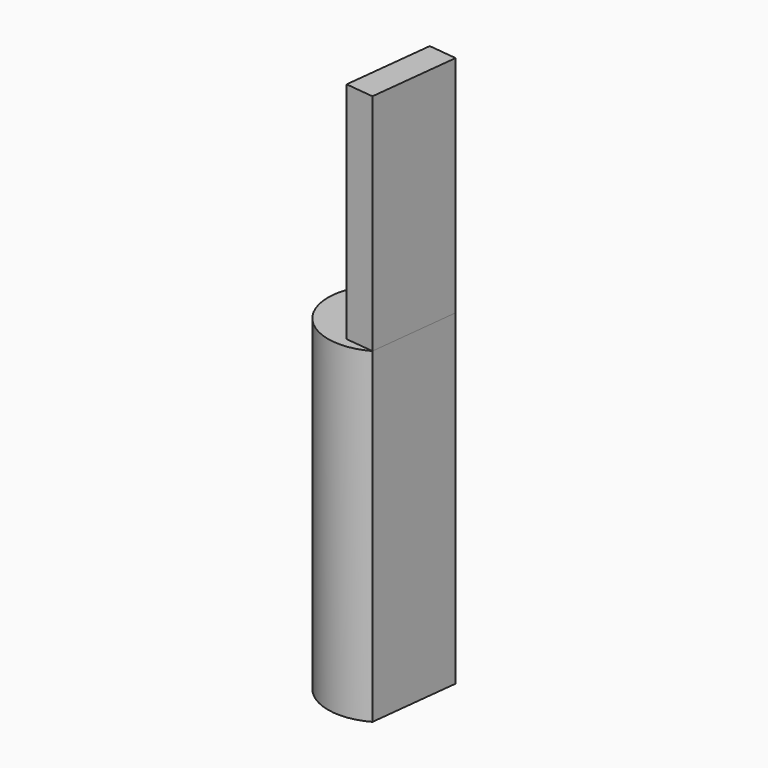
from build123d import *

# Parameters (mm, degrees)
F0_R     = 6.9
F1_DEPTH = 40
F3_DEPTH = 40
F4_W     = 11.228349
F4_H     = 10.522324
F5_DEPTH = 3.5
F6_W     = 11.228349
F6_H     = 16.9586
F7_DEPTH = 3.5
F8_R     = 4.547119
F9_DEPTH = 2.5


with BuildPart() as f1:
    # F0 (on Top) → F1 (new body)
    with BuildSketch(Plane.XY):
        with Locations((-26.366409, 6.635255)):
            Circle(F0_R)
    extrude(amount=F1_DEPTH)

    # F2 (on face) → F3 (cut)
    with BuildSketch(Plane(origin=(0, 0, 0), x_dir=(1, 0, 0), z_dir=(0, 0, -1))):
        Polygon((-17.36803, 0.397698), (-23.011649, -0.605696), (-21.749303, -11.76286), (-16.136123, -11.266587), align=None)
    extrude(amount=-F3_DEPTH, mode=Mode.SUBTRACT)

    # F4 (on face) → F5 (join)
    with BuildSketch(Plane(origin=(-22.78846, 2.578335, 0), x_dir=(0.112425, 0.99366, 0), z_dir=(0.99366, -0.112425, 0))):
        with Locations((3.62895, 45.261162)):
            Rectangle(F4_W, F4_H)
    extrude(amount=-F5_DEPTH)

    # F6 (on face) → F7 (join)
    with BuildSketch(Plane(origin=(-22.78846, 2.578335, 0), x_dir=(0.112425, 0.99366, 0), z_dir=(0.99366, -0.112425, 0))):
        with Locations((3.62895, 59.001624)):
            Rectangle(F6_W, F6_H)
    extrude(amount=-F7_DEPTH)

    # F8 (on face) → F9 (cut)
    with BuildSketch(Plane(origin=(-26.266271, 2.971822, 0), x_dir=(-0.112425, -0.99366, 0), z_dir=(-0.99366, 0.112425, 0))):
        with Locations((-3.642559, 59.778914)):
            Circle(F8_R)
    extrude(amount=-F9_DEPTH, mode=Mode.SUBTRACT)


solid = f1.part
